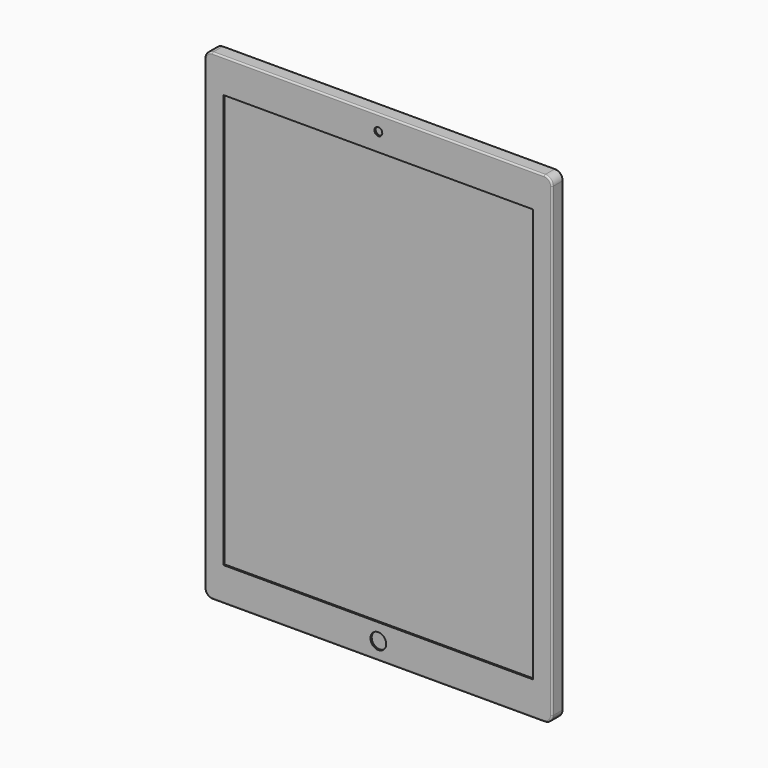
from build123d import *

# Parameters (mm, degrees)
F0_W     = 220.6
F0_H     = 305.7
F1_DEPTH = 9
F2_W     = 196.6
F2_H     = 262.7
F3_DEPTH = 1
F4_R     = 2.5
F4_R_2   = 5
F5_DEPTH = 1
F6_R     = 5
F7_R     = 1


with BuildPart() as f1:
    # F0 (on Front) → F1 (new body)
    with BuildSketch(Plane.XZ):
        with Locations((0, 152.85)):
            Rectangle(F0_W, F0_H)
    extrude(amount=F1_DEPTH)

    # F2 (on face) → F3 (cut)
    with BuildSketch(Plane.XZ.offset(9)):
        with Locations((0, 152.85)):
            Rectangle(F2_W, F2_H)
    extrude(amount=-F3_DEPTH, mode=Mode.SUBTRACT)

    # F4 (on face) → F5 (cut)
    with BuildSketch(Plane.XZ.offset(9)):
        with Locations((0, 295.7)):
            Circle(F4_R)
        with Locations((0, 11)):
            Circle(F4_R_2)
    extrude(amount=-F5_DEPTH, mode=Mode.SUBTRACT)

    # F6
    f6_edges = [f1.edges().sort_by_distance(p)[0] for p in [
        (-110.3, -4.5, 0),
        (110.3, -4.5, 0),
        (110.3, -4.5, 305.7),
        (-110.3, -4.5, 305.7),
    ]]
    fillet(f6_edges, radius=F6_R)

    # F7
    f7_edges = [f1.edges().sort_by_distance(p)[0] for p in [
        (-110.3, -9, 152.85),
        (-110.3, 0, 152.85),
    ]]
    fillet(f7_edges, radius=F7_R)


solid = f1.part
